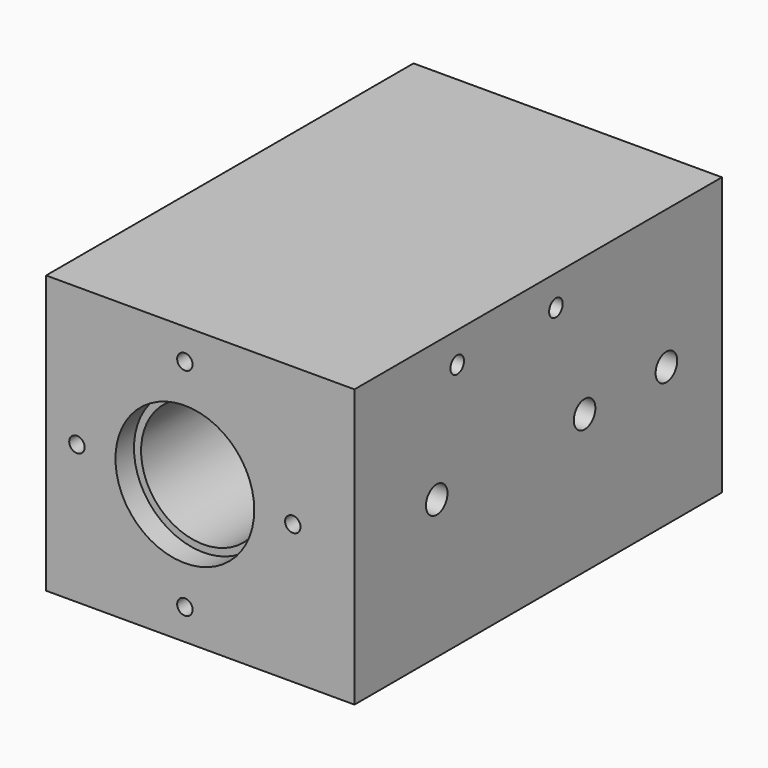
from build123d import *

# Parameters (mm, degrees)
F0_W      = 114.3
F0_H      = 114.3
F1_DEPTH  = 189.13856
F2_R      = 35.179
F3_DEPTH  = 96.52
F4_R      = 39.37
F5_DEPTH  = 9.525
F6_R      = 25.654
F7_DEPTH  = 71.12
F8_R      = 28.575
F9_DEPTH  = 9.525
F10_R     = 7.14375
F11_DEPTH = 118.01956
F12_R     = 5.55625
F13_DEPTH = 32.1059246971
F14_R     = 5.55625
F15_DEPTH = 52.6608720395
F16_DEPTH = 12.7
F18_R     = 3.175
F20_DEPTH = 52.6234315755
F19_R     = 3.175
F21_DEPTH = 146.7612
F24_DEPTH = 9.525
F25_R     = 3.175
F26_DEPTH = 9.525
F27_R     = 3.4925
F28_DEPTH = 127.0010001


with BuildPart() as f1:
    # F0 (on Front) → F1 (new body)
    with BuildSketch(Plane.XZ):
        Rectangle(F0_W, F0_H)
    extrude(amount=F1_DEPTH)

    # F2 (on face) → F3 (cut)
    with BuildSketch(Plane(origin=(0, 0, 0), x_dir=(-1, 0, 0), z_dir=(0, 1, 0))):
        Circle(F2_R)
    extrude(amount=-F3_DEPTH, mode=Mode.SUBTRACT)

    # F4 (on face) → F5 (cut)
    with BuildSketch(Plane(origin=(0, 0, 0), x_dir=(-1, 0, 0), z_dir=(0, 1, 0))):
        Circle(F4_R)
    extrude(amount=-F5_DEPTH, mode=Mode.SUBTRACT)

    # F6 (on face) → F7 (cut)
    with BuildSketch(Plane.XZ.offset(189.13856)):
        Circle(F6_R)
    extrude(amount=-F7_DEPTH, mode=Mode.SUBTRACT)

    # F8 (on face) → F9 (cut)
    with BuildSketch(Plane.XZ.offset(189.13856)):
        Circle(F8_R)
    extrude(amount=-F9_DEPTH, mode=Mode.SUBTRACT)

    # F10 (on face) → F11 (cut, through all)
    with BuildSketch(Plane.XZ.offset(118.01856)):
        Circle(F10_R)
    extrude(amount=-F11_DEPTH, mode=Mode.SUBTRACT)

    # F12 (on face) → F13 (cut, through all)
    with BuildSketch(Plane.YZ.offset(57.15)):
        with Locations((-146.80692, 0)):
            Circle(F12_R)
        with Locations((-70.69328, 0)):
            Circle(F12_R)
        with Locations((-28.575, 0)):
            Circle(F12_R)
    extrude(amount=-F13_DEPTH, mode=Mode.SUBTRACT)

    # F14 (on face) → F15 (cut, through all)
    with BuildSketch(Plane(origin=(-57.15, 0, 0), x_dir=(0, -1, 0), z_dir=(-1, 0, 0))):
        with Locations((108.17606, 0)):
            Circle(F14_R)
    extrude(amount=-F15_DEPTH, mode=Mode.SUBTRACT)

    # F16 (add): a face of the model
    f16_faces = [f1.faces().sort_by_distance(p)[0] for p in [
        (57.15, -94.7404141206, 0),
    ]]
    extrude(f16_faces, amount=F16_DEPTH)

    # F18 (on face) → F20 (cut, through all)
    with BuildSketch(Plane(origin=(0, 0, -57.15), x_dir=(1, 0, 0), z_dir=(0, 0, -1))):
        with Locations((57.15, 146.7612)):
            Circle(F18_R)
        with Locations((57.15, 28.575)):
            Circle(F18_R)
    extrude(amount=-F20_DEPTH, mode=Mode.SUBTRACT)

    # F19 (on face) → F21 (cut)
    with BuildSketch(Plane(origin=(0, 0, 0), x_dir=(-1, 0, 0), z_dir=(0, 1, 0))):
        with Locations((-57.15, -38.1)):
            Circle(F19_R)
    extrude(amount=-F21_DEPTH, mode=Mode.SUBTRACT)

    # F23 (on face) → F24 (cut)
    with BuildSketch(Plane.XZ):
        with BuildLine():
            ThreePointArc((-47.625, 0), (-44.45, -3.175), (-41.275, 0))
            Line((-41.275, 0), (-47.625, 0))
        make_face()
        with BuildLine():
            Line((-47.625, 0), (-41.275, 0))
            ThreePointArc((-41.275, 0), (-44.45, 3.175), (-47.625, 0))
        make_face()
        with BuildLine():
            ThreePointArc((41.275, 0), (44.45, -3.175), (47.625, 0))
            Line((47.625, 0), (41.275, 0))
        make_face()
        with BuildLine():
            Line((41.275, 0), (47.625, 0))
            ThreePointArc((47.625, 0), (44.45, 3.175), (41.275, 0))
        make_face()
        with BuildLine():
            ThreePointArc((0, -41.275), (-3.175, -44.45), (0, -47.625))
            Line((0, -47.625), (0, -41.275))
        make_face()
        with BuildLine():
            Line((0, -41.275), (0, -47.625))
            ThreePointArc((0, -47.625), (2.2450640303, -46.6950640303), (3.175, -44.45))
            ThreePointArc((3.175, -44.45), (2.2450640303, -42.2049359697), (0, -41.275))
        make_face()
        with BuildLine():
            ThreePointArc((0, 47.625), (-3.175, 44.45), (0, 41.275))
            Line((0, 41.275), (0, 47.625))
        make_face()
        with BuildLine():
            Line((0, 47.625), (0, 41.275))
            ThreePointArc((0, 41.275), (2.2450640303, 42.2049359697), (3.175, 44.45))
            ThreePointArc((3.175, 44.45), (2.2450640303, 46.6950640303), (0, 47.625))
        make_face()
    extrude(amount=F24_DEPTH, mode=Mode.SUBTRACT)

    # F25 (on face) → F26 (cut)
    with BuildSketch(Plane.XZ.offset(189.13856)):
        with Locations((-44.45, 0)):
            Circle(F25_R)
        with Locations((0, 44.45)):
            Circle(F25_R)
        with Locations((44.45, 0)):
            Circle(F25_R)
        with Locations((0, -44.45)):
            Circle(F25_R)
    extrude(amount=-F26_DEPTH, mode=Mode.SUBTRACT)

    # F27 (on face) → F28 (cut, through all)
    with BuildSketch(Plane.YZ.offset(69.85)):
        with Locations((-136.2554430962, 44.5877164602)):
            Circle(F27_R)
        with Locations((-85.4554430962, 44.5877164602)):
            Circle(F27_R)
    extrude(amount=-F28_DEPTH, mode=Mode.SUBTRACT)


solid = f1.part
